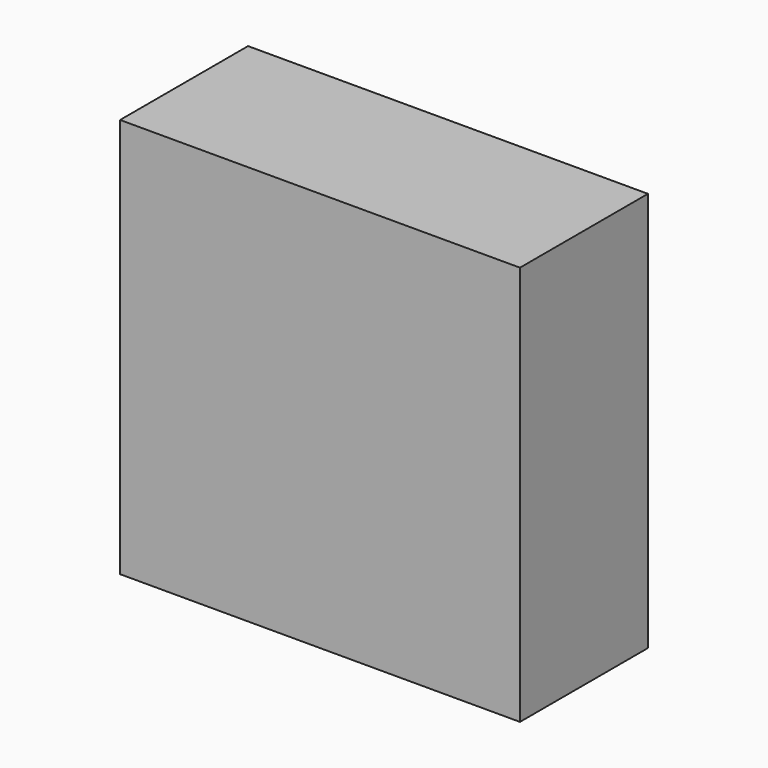
from build123d import *

# Parameters (mm, degrees)
F0_W     = 63.5
F0_H     = 63.5
F1_DEPTH = 1498.6
F2_DEPTH = 1092.2
F3_DEPTH = 203.2
F4_DEPTH = 177.8


with BuildPart() as f1:
    # F0 (on Front) → F1 (new body)
    with BuildSketch(Plane.XZ):
        with Locations((-132.8186606169, 36.3734573238)):
            Rectangle(F0_W, F0_H)
    extrude(amount=F1_DEPTH)

    # F2 (cut): a face of the model
    f2_faces = [f1.faces().sort_by_distance(p)[0] for p in [
        (-132.8186606169, 0, 36.3734573238),
    ]]
    extrude(f2_faces, amount=-F2_DEPTH, mode=Mode.SUBTRACT)

    # F3 (cut): a face of the model
    f3_faces = [f1.faces().sort_by_distance(p)[0] for p in [
        (-132.8186606169, -1092.2, 36.3734573238),
    ]]
    extrude(f3_faces, amount=-F3_DEPTH, mode=Mode.SUBTRACT)

    # F4 (cut): a face of the model
    f4_faces = [f1.faces().sort_by_distance(p)[0] for p in [
        (-132.8186606169, -1498.6, 36.3734573238),
    ]]
    extrude(f4_faces, amount=-F4_DEPTH, mode=Mode.SUBTRACT)


solid = f1.part
